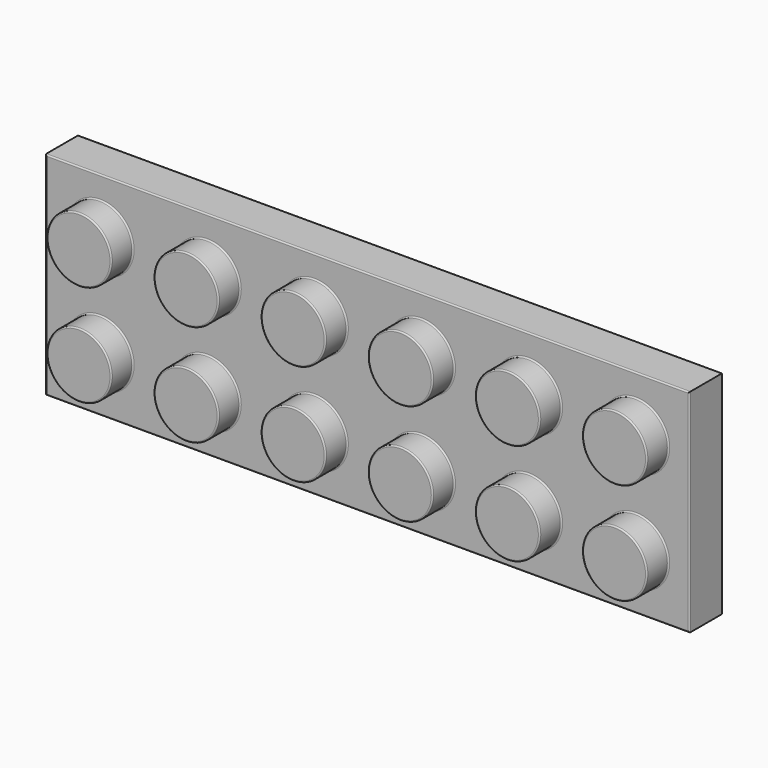
from build123d import *

# Parameters (mm, degrees)
F0_W      = 47.86
F0_H      = 15.75
F1_DEPTH  = 3.09
F2_R      = 2.4
F3_DEPTH  = 2
F4_R      = 2.4
F5_DEPTH  = 2
F6_R      = 2.4
F7_DEPTH  = 2
F8_R      = 2.4
F9_DEPTH  = 2
F10_R     = 2.4
F11_DEPTH = 2
F12_R     = 2.4
F13_DEPTH = 2
F14_R     = 2.4
F15_DEPTH = 2
F16_R     = 2.4
F17_DEPTH = 2
F18_R     = 2.4
F19_DEPTH = 2
F20_R     = 2.4
F21_DEPTH = 2
F22_R     = 2.4
F23_DEPTH = 2
F24_R     = 2.4
F25_DEPTH = 2
F26_T     = -1.44
F27_R     = 3.21
F28_DEPTH = 1.66
F29_R     = 0.1
F30_R     = 0.1


with BuildPart() as f1:
    # F0 (on Front) → F1 (new body)
    with BuildSketch(Plane.XZ):
        with Locations((23.93, 7.875)):
            Rectangle(F0_W, F0_H)
    extrude(amount=F1_DEPTH)

    # F2 (on face) → F3 (join)
    with BuildSketch(Plane.XZ.offset(3.09)):
        with Locations((4.1, 11.65)):
            Circle(F2_R)
    extrude(amount=F3_DEPTH)

    # F4 (on face) → F5 (join)
    with BuildSketch(Plane.XZ.offset(3.09)):
        with Locations((4.1, 4.1)):
            Circle(F4_R)
    extrude(amount=F5_DEPTH)

    # F6 (on face) → F7 (join)
    with BuildSketch(Plane.XZ.offset(3.09)):
        with Locations((12.06, 11.65)):
            Circle(F6_R)
    extrude(amount=F7_DEPTH)

    # F8 (on face) → F9 (join)
    with BuildSketch(Plane.XZ.offset(3.09)):
        with Locations((12.06, 4.1)):
            Circle(F8_R)
    extrude(amount=F9_DEPTH)

    # F10 (on face) → F11 (join)
    with BuildSketch(Plane.XZ.offset(3.09)):
        with Locations((20.02, 11.65)):
            Circle(F10_R)
    extrude(amount=F11_DEPTH)

    # F12 (on face) → F13 (join)
    with BuildSketch(Plane.XZ.offset(3.09)):
        with Locations((20.02, 4.1)):
            Circle(F12_R)
    extrude(amount=F13_DEPTH)

    # F14 (on face) → F15 (join)
    with BuildSketch(Plane.XZ.offset(3.09)):
        with Locations((27.98, 11.65)):
            Circle(F14_R)
    extrude(amount=F15_DEPTH)

    # F16 (on face) → F17 (join)
    with BuildSketch(Plane.XZ.offset(3.09)):
        with Locations((27.98, 4.1)):
            Circle(F16_R)
    extrude(amount=F17_DEPTH)

    # F18 (on face) → F19 (join)
    with BuildSketch(Plane.XZ.offset(3.09)):
        with Locations((35.94, 11.65)):
            Circle(F18_R)
    extrude(amount=F19_DEPTH)

    # F20 (on face) → F21 (join)
    with BuildSketch(Plane.XZ.offset(3.09)):
        with Locations((35.94, 4.1)):
            Circle(F20_R)
    extrude(amount=F21_DEPTH)

    # F22 (on face) → F23 (join)
    with BuildSketch(Plane.XZ.offset(3.09)):
        with Locations((43.9, 11.65)):
            Circle(F22_R)
    extrude(amount=F23_DEPTH)

    # F24 (on face) → F25 (join)
    with BuildSketch(Plane.XZ.offset(3.09)):
        with Locations((43.9, 4.1)):
            Circle(F24_R)
    extrude(amount=F25_DEPTH)

    # F26
    f26_openings = [f1.faces().sort_by_distance(p)[0] for p in [
        (23.93, 0, 7.875),
    ]]
    offset(amount=F26_T, openings=f26_openings, kind=Kind.INTERSECTION)

    # F27 (on face) → F28 (join)
    with BuildSketch(Plane(origin=(0, -1.65, 0), x_dir=(-1, 0, 0), z_dir=(0, 1, 0))):
        with Locations((-23.93, 7.875)):
            Circle(F27_R)
        with Locations((-7.77, 7.875)):
            Circle(F27_R)
        with Locations((-15.85, 7.875)):
            Circle(F27_R)
        with Locations((-32.01, 7.875)):
            Circle(F27_R)
        with Locations((-40.09, 7.875)):
            Circle(F27_R)
    extrude(amount=F28_DEPTH)

    # F29
    f29_edges = [f1.edges().sort_by_distance(p)[0] for p in [
        (1.7, -5.09, 11.65),
        (9.66, -5.09, 11.65),
        (17.62, -5.09, 11.65),
        (25.58, -5.09, 11.65),
        (33.54, -5.09, 11.65),
        (41.5, -5.09, 11.65),
        (41.5, -5.09, 4.1),
        (33.54, -5.09, 4.1),
        (25.58, -5.09, 4.1),
        (17.62, -5.09, 4.1),
        (9.66, -5.09, 4.1),
        (1.7, -5.09, 4.1),
        (0, -3.09, 7.875),
        (23.93, -3.09, 15.75),
        (23.93, -3.09, 0),
        (47.86, -3.09, 7.875),
        (1.7, -3.09, 4.1),
        (9.66, -3.09, 4.1),
        (17.62, -3.09, 4.1),
        (25.58, -3.09, 4.1),
        (33.54, -3.09, 4.1),
        (41.5, -3.09, 4.1),
        (1.7, -3.09, 11.65),
        (9.66, -3.09, 11.65),
        (17.62, -3.09, 11.65),
        (25.58, -3.09, 11.65),
        (33.54, -3.09, 11.65),
        (41.5, -3.09, 11.65),
    ]]
    fillet(f29_edges, radius=F29_R)

    # F30
    f30_edges = [f1.edges().sort_by_distance(p)[0] for p in [
        (23.93, 0, 1.44),
        (0, 0, 7.875),
        (23.93, 0, 0),
        (47.86, 0, 7.875),
        (23.93, 0, 15.75),
        (1.44, 0, 7.875),
        (23.93, 0, 14.31),
        (46.42, 0, 7.875),
        (10.98, 0.01, 7.875),
        (19.06, 0.01, 7.875),
        (27.14, 0.01, 7.875),
        (35.22, 0.01, 7.875),
        (43.3, 0.01, 7.875),
    ]]
    fillet(f30_edges, radius=F30_R)


solid = f1.part
